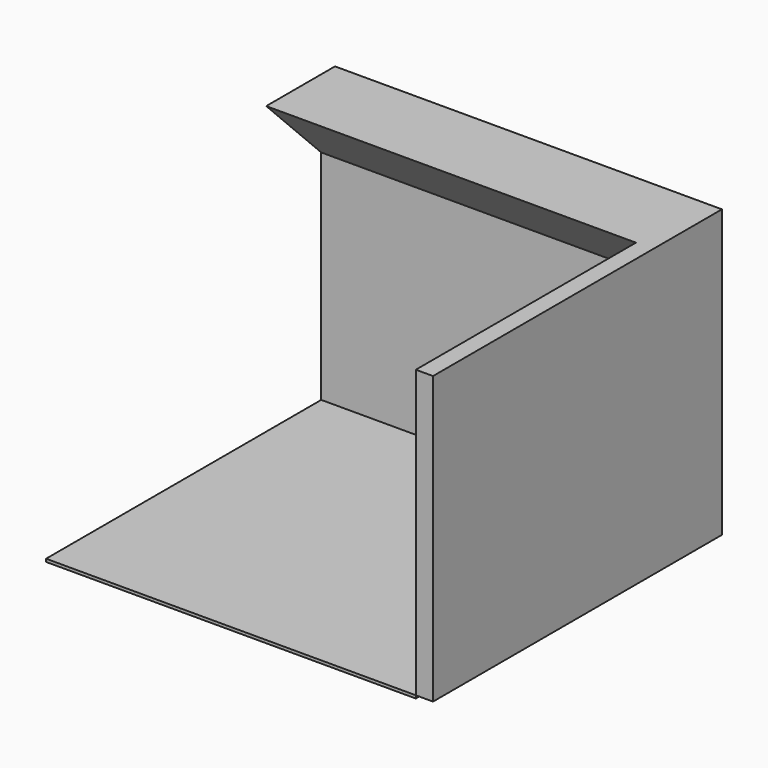
from build123d import *

# Parameters (mm, degrees)
F0_W     = 3276.6
F0_H     = 3048
F1_DEPTH = 25.4
F3_DEPTH = 2539.9746
F5_DEPTH = 3276.6


with BuildPart() as f1:
    # F0 (on Top) → F1 (new body)
    with BuildSketch(Plane.XY):
        with Locations((1149.391323, -1842.149369)):
            Rectangle(F0_W, F0_H)
    extrude(amount=F1_DEPTH)

    # F2 (on face) → F3 (join)
    with BuildSketch(Plane.XY.offset(25.4)):
        Polygon((-488.908677, -165.749369), (-488.908677, -318.149369), (2787.691323, -318.149369), (2787.691323, -3366.149369), (2940.091323, -3366.149369), (2940.091323, -165.749369), align=None)
    extrude(amount=F3_DEPTH)

    # F4 (on face) → F5 (join, through all)
    with BuildSketch(Plane(origin=(-488.908677, 0, 0), x_dir=(0, -1, 0), z_dir=(-1, 0, 0))):
        Polygon((927.723969, 2565.3746), (318.149369, 2565.3746), (318.149369, 1955.8), align=None)
    extrude(amount=-F5_DEPTH)


solid = f1.part
